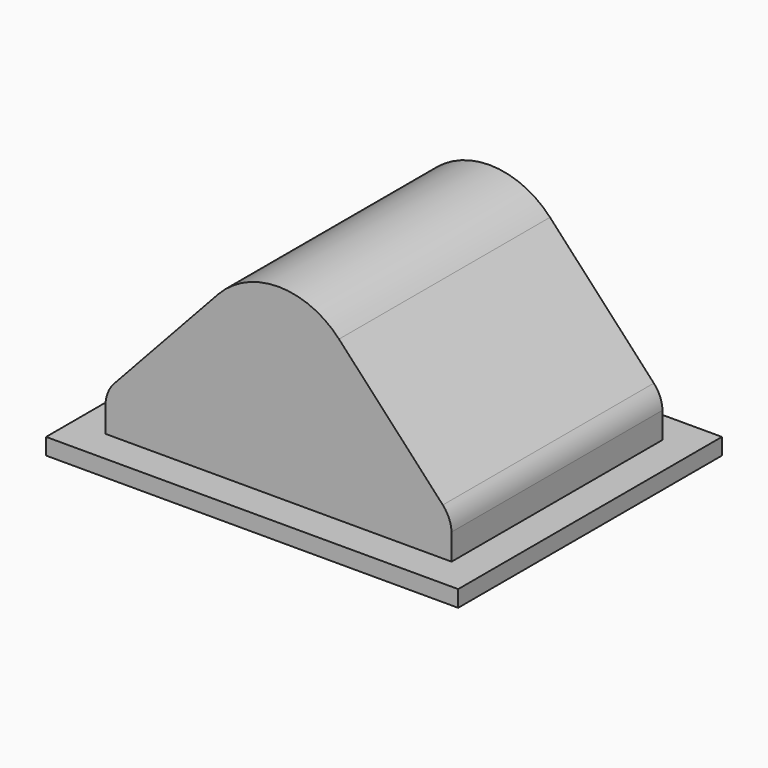
from build123d import *

# Parameters (mm, degrees)
F0_W     = 25
F0_H     = 20
F1_DEPTH = 1
F3_DEPTH = 8


with BuildPart() as f1:
    # F0 (on Top) → F1 (new body)
    with BuildSketch(Plane.XY):
        Rectangle(F0_W, F0_H)
    extrude(amount=F1_DEPTH)

    # F2 (on Front) → F3 (join, symmetric)
    with BuildSketch(Plane.XZ):
        with BuildLine():
            Line((9.968287, 3.857988), (3.670719, 10.667061))
            ThreePointArc((3.670719, 10.667061), (0, 12.272091), (-3.670719, 10.667061))
            Line((-3.670719, 10.667061), (-9.968287, 3.857988))
            ThreePointArc((-9.968287, 3.857988), (-10.363556, 3.226058), (-10.499989, 2.493284))
            Line((-10.499989, 2.493284), (-10.499989, 0))
            Line((-10.499989, 0), (10.498195, 0))
            Line((10.498195, 0), (10.498195, 2.415039))
            Line((10.498195, 2.415039), (10.498195, 2.584961))
            ThreePointArc((10.498195, 2.584961), (10.346422, 3.268587), (9.968287, 3.857988))
        make_face()
    extrude(amount=F3_DEPTH, both=True)


solid = f1.part
